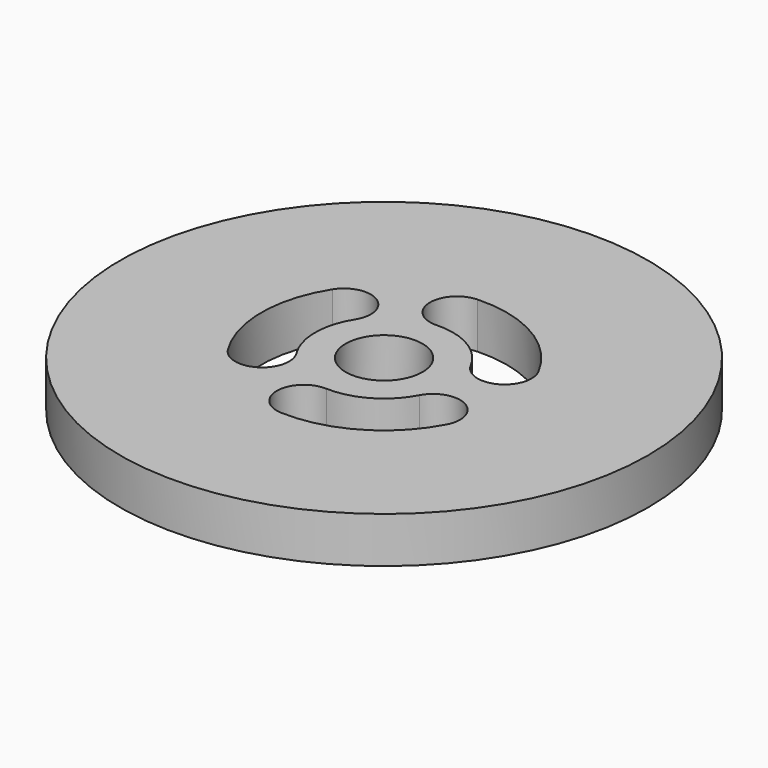
from build123d import *

# Parameters (mm, degrees)
F0_R     = 7.588
F0_R_2   = 1.105
F1_DEPTH = 1.32


with BuildPart() as f1:
    # F0 (on Top) → F1 (new body)
    with BuildSketch(Plane.XY):
        Circle(F0_R)
        with BuildLine():
            ThreePointArc((-0.075923, -1.978544), (0.99, -1.71473), (1.751431, -0.923521))
            ThreePointArc((1.751431, -0.923521), (2.798444, -0.599465), (3.1225, -1.646479))
            ThreePointArc((3.1225, -1.646479), (1.765, -3.05707), (-0.135357, -3.527404))
            ThreePointArc((-0.135357, -3.527404), (-0.88007, -2.723257), (-0.075923, -1.978544))
        make_face(mode=Mode.SUBTRACT)
        with BuildLine():
            ThreePointArc((-2.987143, 1.880925), (-1.918374, 2.123791), (-1.675508, 1.055023))
            ThreePointArc((-1.675508, 1.055023), (-1.98, 0), (-1.675508, -1.055023))
            ThreePointArc((-1.675508, -1.055023), (-1.918374, -2.123791), (-2.987143, -1.880925))
            ThreePointArc((-2.987143, -1.880925), (-3.53, 0), (-2.987143, 1.880925))
        make_face(mode=Mode.SUBTRACT)
        Circle(F0_R_2, mode=Mode.SUBTRACT)
        with BuildLine():
            ThreePointArc((3.1225, 1.646479), (2.798444, 0.599465), (1.751431, 0.923521))
            ThreePointArc((1.751431, 0.923521), (0.99, 1.71473), (-0.075923, 1.978544))
            ThreePointArc((-0.075923, 1.978544), (-0.88007, 2.723257), (-0.135357, 3.527404))
            ThreePointArc((-0.135357, 3.527404), (1.765, 3.05707), (3.1225, 1.646479))
        make_face(mode=Mode.SUBTRACT)
    extrude(amount=F1_DEPTH)


solid = f1.part
